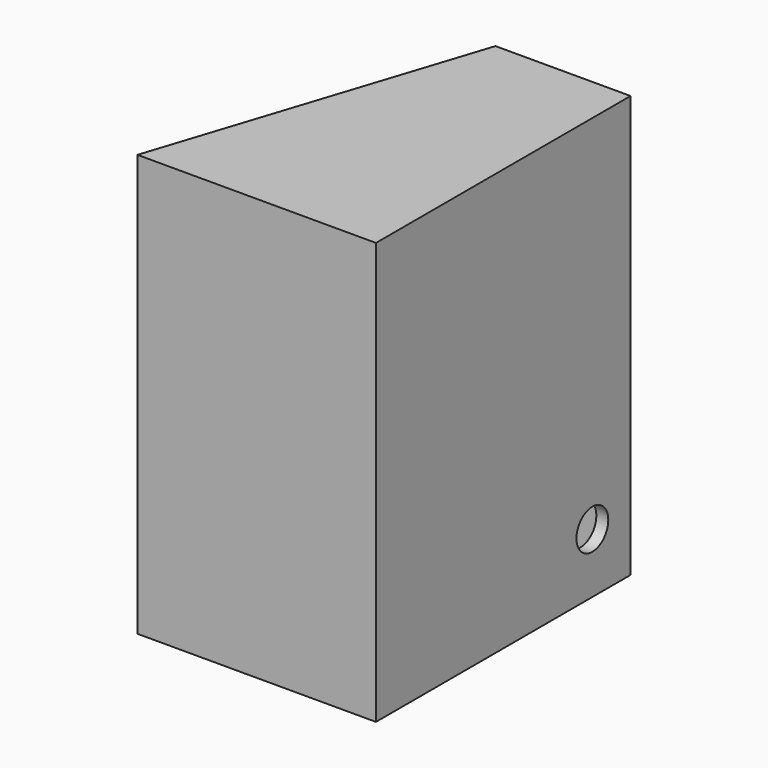
from build123d import *

# Parameters (mm, degrees)
F1_DEPTH  = 500
F2_W      = 273.5948168963
F2_H      = 203
F2_W_2    = 90
F2_H_2    = 80
F3_DEPTH  = 25
F2_R      = 7.5
F4_DEPTH  = 25
F5_R      = 25
F6_DEPTH  = 25
F8_DEPTH  = 15
F10_DEPTH = 15


with BuildPart() as f1:
    # F0 (on Top) → F1 (new body)
    with BuildSketch(Plane.XY):
        Polygon((123.0739113364, 227.9723018915), (-30.9260886636, 227.9723018915), (-35.8010886636, 212.9723018915), (108.0739113364, 212.9723018915), (108.0739113364, -157.0276981085), (-156.0510886636, -157.0276981085), (-160.9260886636, -172.0276981085), (123.0739113364, -172.0276981085), align=None)
        Polygon((-30.9260886636, 227.9723018915), (-46.6983942972, 227.9723018915), (-176.6983942972, -172.0276981085), (-160.9260886636, -172.0276981085), (-156.0510886636, -157.0276981085), (-35.8010886636, 212.9723018915), align=None)
    extrude(amount=F1_DEPTH)

    # F2 (on face) → F3 (cut)
    with BuildSketch(Plane(origin=(-109.2498744257, 35.5062091884, 0), x_dir=(-0.3090860723, -0.9510340687, 0), z_dir=(-0.9510340687, 0.3090860723, 0))):
        with Locations((7.4218059001, 378.5)):
            Rectangle(F2_W, F2_H)
        with Locations((16.6243974519, 87)):
            Rectangle(F2_W_2, F2_H_2)
    extrude(amount=-F3_DEPTH, mode=Mode.SUBTRACT)

    # F2 (on face) → F4 (cut)
    with BuildSketch(Plane(origin=(-109.2498744257, 35.5062091884, 0), x_dir=(-0.3090860723, -0.9510340687, 0), z_dir=(-0.9510340687, 0.3090860723, 0))):
        with Locations((-85.3756025481, 32.5)):
            Circle(F2_R)
    extrude(amount=-F4_DEPTH, mode=Mode.SUBTRACT)

    # F5 (on face) → F6 (cut)
    with BuildSketch(Plane.YZ.offset(123.0739113364)):
        with Locations((167.9723018915, 60)):
            Circle(F5_R)
    extrude(amount=-F6_DEPTH, mode=Mode.SUBTRACT)

    # F7 (on face) → F8 (join)
    with BuildSketch(Plane.XY.offset(500)):
        Polygon((123.0739113364, -172.0276981085), (123.0739113364, 227.9723018915), (-46.6983942972, 227.9723018915), (-176.6983942972, -172.0276981085), align=None)
    extrude(amount=F8_DEPTH)

    # F9 (on face) → F10 (join)
    with BuildSketch(Plane(origin=(0, 0, 0), x_dir=(1, 0, 0), z_dir=(0, 0, -1))):
        Polygon((-46.6983942972, -227.9723018915), (123.0739113364, -227.9723018915), (123.0739113364, 172.0276981085), (-176.6983942972, 172.0276981085), align=None)
    extrude(amount=F10_DEPTH)


solid = f1.part
